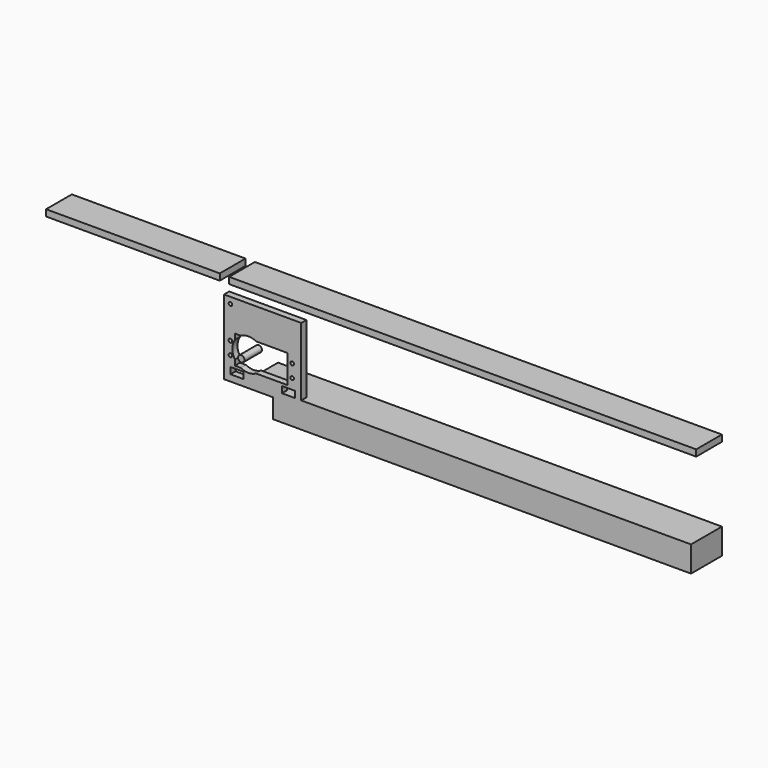
from build123d import *

# Parameters (mm, degrees)
F0_W     = 10
F0_H     = 5
F0_R     = 1.4
F0_W_2   = 20
F1_DEPTH = 5
F0_W_3   = 135
F2_DEPTH = 25
F0_W_4   = 363
F4_R     = 2.5
F5_DEPTH = 17


with BuildPart() as f1:
    # F0 (on Front) → F1 (new body)
    with BuildSketch(Plane.XZ):
        Polygon((55, -58), (60, -58), (60, -5), (0, -5), (0, -63), (18, -63), (18, -58), (38, -58), (45, -58), (45, -53), (55, -53), align=None)
        with Locations((10, -55.5)):
            Rectangle(F0_W, F0_H, mode=Mode.SUBTRACT)
        with Locations((5, -45)):
            Circle(F0_R, mode=Mode.SUBTRACT)
        with BuildLine():
            Line((8.4524883067, -33.2917962852), (8.4524883067, -29))
            Line((8.4524883067, -29), (13.0628289565, -29))
            ThreePointArc((13.0628289565, -29), (19, -27.5), (24.9371710435, -29))
            Line((24.9371710435, -29), (49.4524883067, -29))
            Line((49.4524883067, -29), (49.4524883067, -51))
            Line((49.4524883067, -51), (24.9371710435, -51))
            ThreePointArc((24.9371710435, -51), (19, -52.5), (13.0628289565, -51))
            Line((13.0628289565, -51), (8.4524883067, -51))
            Line((8.4524883067, -51), (8.4524883067, -46.7082037148))
            ThreePointArc((8.4524883067, -46.7082037148), (6.5, -40), (8.4524883067, -33.2917962852))
        make_face(mode=Mode.SUBTRACT)
        with Locations((53, -45)):
            Circle(F0_R, mode=Mode.SUBTRACT)
        with Locations((5, -35)):
            Circle(F0_R, mode=Mode.SUBTRACT)
        with Locations((53, -35)):
            Circle(F0_R, mode=Mode.SUBTRACT)
        with Locations((5, -10)):
            Circle(F0_R, mode=Mode.SUBTRACT)
        with Locations((28, -60.5)):
            Rectangle(F0_W_2, F0_H)
        Polygon((38, -58), (38, -63), (60, -63), (60, -58), (55, -58), (45, -58), align=None)
        Polygon((38, -78), (363, -78), (363, -58), (60, -58), (60, -63), (38, -63), align=None)
    extrude(amount=F1_DEPTH)

    # F0 (on Front) → F2, piece 3 (join)
    with BuildSketch(Plane.XZ):
        Polygon((38, -78), (363, -78), (363, -58), (60, -58), (60, -63), (38, -63), align=None)
        Polygon((38, -58), (38, -63), (60, -63), (60, -58), (55, -58), (45, -58), align=None)
        Polygon((38, -78), (363, -78), (363, -58), (60, -58), (60, -63), (38, -63), align=None)
        with Locations((28, -60.5)):
            Rectangle(F0_W_2, F0_H)
    extrude(amount=-F2_DEPTH)


with BuildPart() as f2:
    # F0 (on Front) → F2 (new body)
    with BuildSketch(Plane.XZ):
        with Locations((-74.78, 2.5)):
            Rectangle(F0_W_3, F0_H)
    extrude(amount=-F2_DEPTH)


with BuildPart() as f2b:
    # F0 (on Front) → F2, piece 2 (new body)
    with BuildSketch(Plane.XZ):
        with Locations((181.5, 2.5)):
            Rectangle(F0_W_4, F0_H)
    extrude(amount=-F2_DEPTH)


with BuildPart() as f5:
    # F4 (on offset) → F5 (new body)
    with BuildSketch(Plane.XZ.offset(12)):
        with Locations((19, -40)):
            Circle(F4_R)
    extrude(amount=-F5_DEPTH)


solid = Compound([f1.part, f2.part, f2b.part, f5.part])
